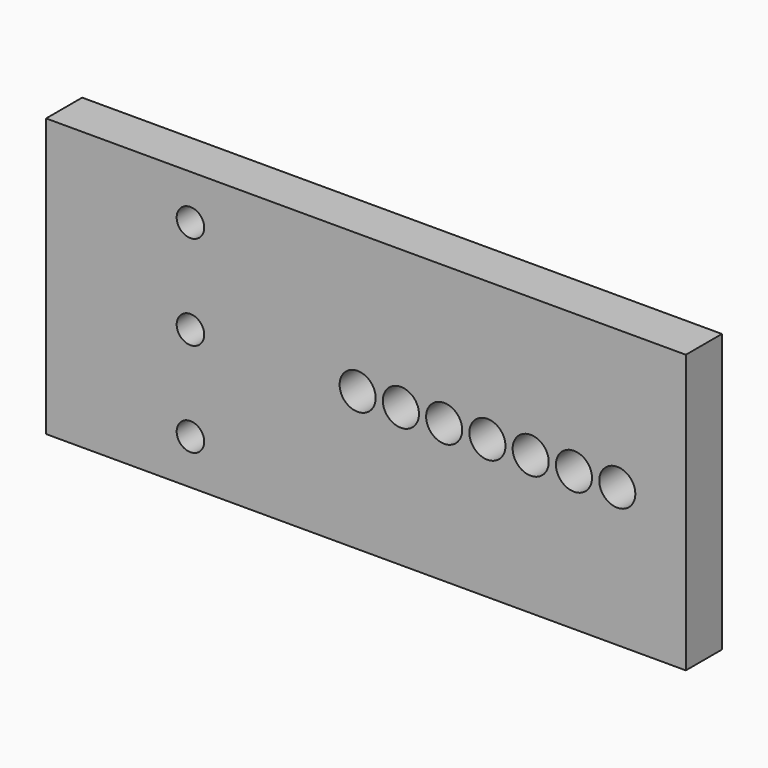
from build123d import *

# Parameters (mm, degrees)
F0_W     = 88.65
F0_H     = 38.5064
F0_R     = 1.905
F0_R_2   = 2.5
F1_DEPTH = 6.2484


with BuildPart() as f1:
    # F0 (on Front) → F1 (new body)
    with BuildSketch(Plane.XZ):
        with Locations((4.548196, -2.739448)):
            Rectangle(F0_W, F0_H)
        with Locations((-19.776804, -15.795048)):
            Circle(F0_R, mode=Mode.SUBTRACT)
        with Locations((-19.776804, -2.739448)):
            Circle(F0_R, mode=Mode.SUBTRACT)
        with Locations((3.395596, -2.739448)):
            Circle(F0_R_2, mode=Mode.SUBTRACT)
        with Locations((-19.776804, 10.316152)):
            Circle(F0_R, mode=Mode.SUBTRACT)
        with Locations((9.389996, -2.739448)):
            Circle(F0_R_2, mode=Mode.SUBTRACT)
        with Locations((15.384396, -2.739448)):
            Circle(F0_R_2, mode=Mode.SUBTRACT)
        with Locations((21.378796, -2.739448)):
            Circle(F0_R_2, mode=Mode.SUBTRACT)
        with Locations((27.373196, -2.739448)):
            Circle(F0_R_2, mode=Mode.SUBTRACT)
        with Locations((33.373196, -2.739448)):
            Circle(F0_R_2, mode=Mode.SUBTRACT)
        with Locations((39.373196, -2.739448)):
            Circle(F0_R_2, mode=Mode.SUBTRACT)
    extrude(amount=-F1_DEPTH)


solid = f1.part
